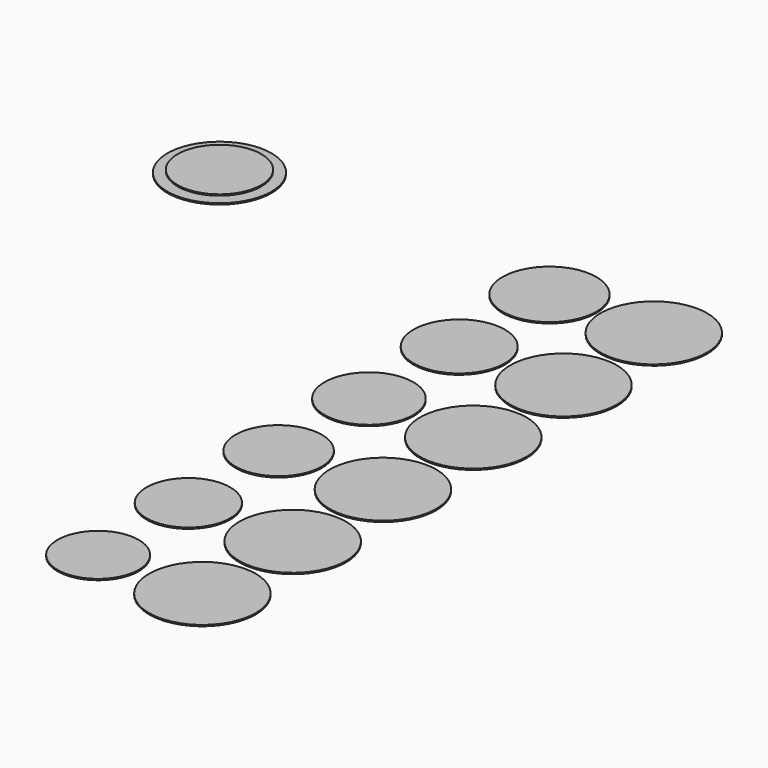
from build123d import *

# Parameters (mm, degrees)
F1_DEPTH  = 1
F2_R      = 37
F2_R_2    = 42
F2_R_3    = 36
F2_R_4    = 35
F2_R_5    = 34
F2_R_6    = 33
F2_R_7    = 32
F3_DEPTH  = 1
F4_R      = 42
F4_R_2    = 37
F4_R_3    = 36
F4_R_4    = 35
F4_R_5    = 34
F4_R_6    = 33
F4_R_7    = 32
F5_DEPTH  = 1
F7_R      = 41
F7_R_2    = 33
F7_R_3    = 31
F8_DEPTH  = 1
F9_DEPTH  = 2
F10_R     = 33
F11_DEPTH = 1


with BuildPart() as f1:
    # F0 (on Top) → F1 (new body)
    with BuildSketch(Plane.XY):
        with BuildLine():
            Line((2.5, -36.915444), (2.5, -41.925529))
            ThreePointArc((2.5, -41.925529), (0, 42), (-2.5, -41.925529))
            Line((-2.5, -41.925529), (-2.5, -36.915444))
            ThreePointArc((-2.5, -36.915444), (0, 37), (2.5, -36.915444))
        make_face()
        with BuildLine():
            Line((92.4, -36.834087), (92.4, -41.853913))
            ThreePointArc((92.4, -41.853913), (88.9, 42), (85.4, -41.853913))
            Line((85.4, -41.853913), (85.4, -36.834087))
            ThreePointArc((85.4, -36.834087), (88.9, 37), (92.4, -36.834087))
        make_face()
        with BuildLine():
            Line((182.3, -36.725332), (182.3, -41.758233))
            ThreePointArc((182.3, -41.758233), (177.8, 42), (173.3, -41.758233))
            Line((173.3, -41.758233), (173.3, -36.725332))
            ThreePointArc((173.3, -36.725332), (177.8, 37), (182.3, -36.725332))
        make_face()
        with BuildLine():
            Line((92.4, -124.729457), (92.4, -130.753913))
            ThreePointArc((92.4, -130.753913), (88.9, -46.9), (85.4, -130.753913))
            Line((85.4, -130.753913), (85.4, -124.729457))
            ThreePointArc((85.4, -124.729457), (88.9, -52.9), (92.4, -124.729457))
        make_face()
        with BuildLine():
            Line((182.3, -124.617643), (182.3, -130.658233))
            ThreePointArc((182.3, -130.658233), (177.8, -46.9), (173.3, -130.658233))
            Line((173.3, -130.658233), (173.3, -124.617643))
            ThreePointArc((173.3, -124.617643), (177.8, -52.9), (182.3, -124.617643))
        make_face()
        with BuildLine():
            Line((2.5, -124.81309), (2.5, -130.825529))
            ThreePointArc((2.5, -130.825529), (0, -46.9), (-2.5, -130.825529))
            Line((-2.5, -130.825529), (-2.5, -125.815444))
            Line((-2.5, -125.815444), (-2.5, -124.81309))
            ThreePointArc((-2.5, -124.81309), (0, -52.9), (2.5, -124.81309))
        make_face()
        with BuildLine():
            Line((92.4, -212.62456), (92.4, -219.653913))
            ThreePointArc((92.4, -219.653913), (88.9, -135.8), (85.4, -219.653913))
            Line((85.4, -219.653913), (85.4, -212.62456))
            ThreePointArc((85.4, -212.62456), (88.9, -142.8), (92.4, -212.62456))
        make_face()
        with BuildLine():
            Line((182.3, -212.509509), (182.3, -219.558233))
            ThreePointArc((182.3, -219.558233), (177.8, -135.8), (173.3, -219.558233))
            Line((173.3, -219.558233), (173.3, -212.509509))
            ThreePointArc((173.3, -212.509509), (177.8, -142.8), (182.3, -212.509509))
        make_face()
        with BuildLine():
            Line((2.5, -212.7106), (2.5, -219.725529))
            ThreePointArc((2.5, -219.725529), (0, -135.8), (-2.5, -219.725529))
            Line((-2.5, -219.725529), (-2.5, -212.7106))
            ThreePointArc((-2.5, -212.7106), (0, -142.8), (2.5, -212.7106))
        make_face()
        with BuildLine():
            Line((92.4, -300.519373), (92.4, -308.553913))
            ThreePointArc((92.4, -308.553913), (88.9, -224.7), (85.4, -308.553913))
            Line((85.4, -308.553913), (85.4, -300.519373))
            ThreePointArc((85.4, -300.519373), (88.9, -232.7), (92.4, -300.519373))
        make_face()
        with BuildLine():
            Line((182.3, -300.40089), (182.3, -308.458233))
            ThreePointArc((182.3, -308.458233), (177.8, -224.7), (173.3, -308.458233))
            Line((173.3, -308.458233), (173.3, -300.40089))
            ThreePointArc((173.3, -300.40089), (177.8, -232.7), (182.3, -300.40089))
        make_face()
        with BuildLine():
            Line((2.5, -300.607964), (2.5, -308.625529))
            ThreePointArc((2.5, -308.625529), (0, -224.7), (-2.5, -308.625529))
            Line((-2.5, -308.625529), (-2.5, -300.607964))
            ThreePointArc((-2.5, -300.607964), (0, -232.7), (2.5, -300.607964))
        make_face()
        with BuildLine():
            Line((92.4, -388.413869), (92.4, -397.453913))
            ThreePointArc((92.4, -397.453913), (88.9, -313.6), (85.4, -397.453913))
            Line((85.4, -397.453913), (85.4, -388.413869))
            ThreePointArc((85.4, -388.413869), (88.9, -322.6), (92.4, -388.413869))
        make_face()
        with BuildLine():
            Line((182.3, -388.291742), (182.3, -397.358233))
            ThreePointArc((182.3, -397.358233), (177.8, -313.6), (173.3, -397.358233))
            Line((173.3, -397.358233), (173.3, -388.291742))
            ThreePointArc((173.3, -388.291742), (177.8, -322.6), (182.3, -388.291742))
        make_face()
        with BuildLine():
            Line((2.5, -388.505167), (2.5, -397.525529))
            ThreePointArc((2.5, -397.525529), (0, -313.6), (-2.5, -397.525529))
            Line((-2.5, -397.525529), (-2.5, -388.505167))
            ThreePointArc((-2.5, -388.505167), (0, -322.6), (2.5, -388.505167))
        make_face()
        with BuildLine():
            Line((92.4, -476.308018), (92.4, -486.353913))
            ThreePointArc((92.4, -486.353913), (88.9, -402.5), (85.4, -486.353913))
            Line((85.4, -486.353913), (85.4, -476.308018))
            ThreePointArc((85.4, -476.308018), (88.9, -412.5), (92.4, -476.308018))
        make_face()
        with BuildLine():
            Line((182.3, -476.182014), (182.3, -486.258233))
            ThreePointArc((182.3, -486.258233), (177.8, -402.5), (173.3, -486.258233))
            Line((173.3, -486.258233), (173.3, -476.182014))
            ThreePointArc((173.3, -476.182014), (177.8, -412.5), (182.3, -476.182014))
        make_face()
        with BuildLine():
            Line((2.5, -476.402194), (2.5, -486.425529))
            ThreePointArc((2.5, -486.425529), (0, -402.5), (-2.5, -486.425529))
            Line((-2.5, -486.425529), (-2.5, -476.402194))
            ThreePointArc((-2.5, -476.402194), (0, -412.5), (2.5, -476.402194))
        make_face()
    extrude(amount=F1_DEPTH)


with BuildPart() as f3:
    # F2 (on Top) → F3 (new body)
    with BuildSketch(Plane.XY):
        with Locations((259.975, 0)):
            Circle(F2_R)
        with Locations((342.15, 0)):
            Circle(F2_R_2)
        with Locations((342.15, -88.9)):
            Circle(F2_R_2)
        with Locations((342.15, -177.8)):
            Circle(F2_R_2)
        with Locations((342.15, -266.7)):
            Circle(F2_R_2)
        with Locations((342.15, -355.6)):
            Circle(F2_R_2)
        with Locations((342.15, -444.5)):
            Circle(F2_R_2)
        with Locations((259.975, -88.9)):
            Circle(F2_R_3)
        with Locations((259.975, -177.8)):
            Circle(F2_R_4)
        with Locations((259.975, -266.7)):
            Circle(F2_R_5)
        with Locations((259.975, -355.6)):
            Circle(F2_R_6)
        with Locations((259.975, -444.5)):
            Circle(F2_R_7)
    extrude(amount=F3_DEPTH)


with BuildPart() as f5:
    # F4 (on Top) → F5 (new body)
    with BuildSketch(Plane.XY):
        with Locations((-89.461, 0)):
            Circle(F4_R)
        with Locations((-89.461, 0)):
            Circle(F4_R_2, mode=Mode.SUBTRACT)
        with Locations((-89.461, -88.9)):
            Circle(F4_R)
        with Locations((-89.461, -88.9)):
            Circle(F4_R_3, mode=Mode.SUBTRACT)
        with Locations((-89.461, -177.8)):
            Circle(F4_R)
        with Locations((-89.461, -177.8)):
            Circle(F4_R_4, mode=Mode.SUBTRACT)
        with Locations((-89.461, -266.7)):
            Circle(F4_R)
        with Locations((-89.461, -266.7)):
            Circle(F4_R_5, mode=Mode.SUBTRACT)
        with Locations((-89.461, -355.6)):
            Circle(F4_R)
        with Locations((-89.461, -355.6)):
            Circle(F4_R_6, mode=Mode.SUBTRACT)
        with Locations((-89.461, -444.5)):
            Circle(F4_R)
        with Locations((-89.461, -444.5)):
            Circle(F4_R_7, mode=Mode.SUBTRACT)
    extrude(amount=F5_DEPTH)


with BuildPart() as f8:
    # F7 (on Top) → F8 (new body)
    with BuildSketch(Plane.XY):
        Circle(F7_R)
        Circle(F7_R_2, mode=Mode.SUBTRACT)
        Circle(F7_R_3)
        Circle(F7_R_2)
        Circle(F7_R_3, mode=Mode.SUBTRACT)
    extrude(amount=F8_DEPTH)

    # F7 (on Top) → F9 (join)
    with BuildSketch(Plane.XY):
        Circle(F7_R_3)
    extrude(amount=F9_DEPTH)

    # F10 (on face) → F11 (join)
    with BuildSketch(Plane.XY.offset(2)):
        Circle(F10_R)
    extrude(amount=F11_DEPTH)


solid = Compound([f3.part, f8.part])
